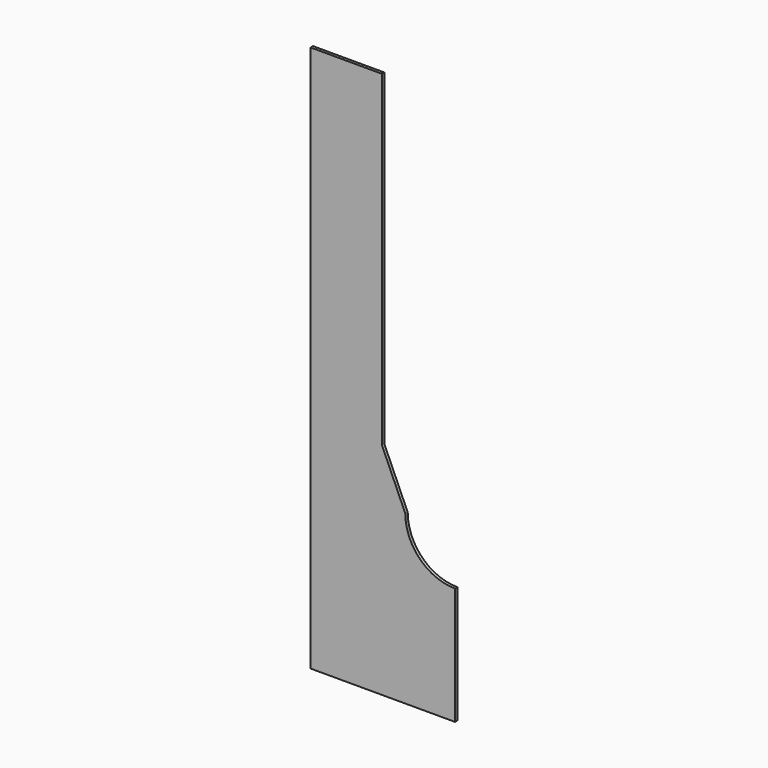
from build123d import *

# Parameters (mm, degrees)
F1_DEPTH = 1.524


with BuildPart() as f1:
    # F0 (on Front) → F1 (new body)
    with BuildSketch(Plane.XZ):
        with BuildLine():
            Line((0, 279.4), (0, 0))
            Line((0, 0), (73.8124, 0))
            Line((73.8124, 0), (73.8124, 60.0202))
            ThreePointArc((73.8124, 60.0202), (55.851888, 67.459688), (48.4124, 85.4202))
            Line((48.4124, 85.4202), (36.5125, 112.246037))
            Line((36.5125, 112.246037), (36.5125, 279.4))
            Line((36.5125, 279.4), (0, 279.4))
        make_face()
    extrude(amount=-F1_DEPTH)


with BuildPart() as f2_1:
    # F2: copy of F1
    add(f1.part)


solid = Compound([f1.part, f2_1.part])
